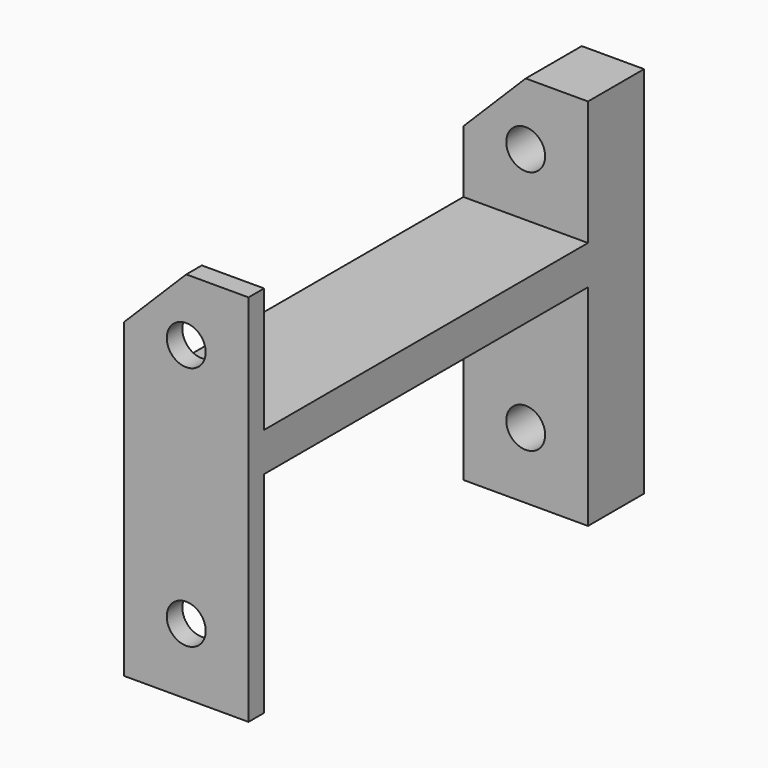
from build123d import *

# Parameters (mm, degrees)
F1_DEPTH  = 1.5875
F2_W      = 10.16
F2_H      = 3.175
F3_DEPTH  = 33.02
F5_DEPTH  = 1.5875
F7_DEPTH  = 4.1275
F8_R      = 1.5875
F9_DEPTH  = 50.8
F10_R     = 1.5875
F11_DEPTH = 50.8


with BuildPart() as f1:
    # F0 (on Front) → F1 (new body)
    with BuildSketch(Plane.XZ):
        Polygon((-11.134821, 14.270418), (-16.214821, 9.190418), (-16.214821, -16.209582), (-6.054821, -16.209582), (-6.054821, 14.270418), align=None)
    extrude(amount=F1_DEPTH)

    # F2 (on face) → F3 (join)
    with BuildSketch(Plane.XZ.offset(1.5875)):
        with Locations((-11.134821, 2.522918)):
            Rectangle(F2_W, F2_H)
    extrude(amount=F3_DEPTH)

    # F4 (on face) → F5 (join)
    with BuildSketch(Plane.XZ.offset(34.6075)):
        Polygon((-16.214821, 9.190418), (-16.214821, 4.110418), (-16.214821, 0.935418), (-16.214821, -16.209582), (-6.054821, -16.209582), (-6.054821, 0.935418), (-6.054821, 4.110418), (-6.054821, 14.270418), (-11.134821, 14.270418), align=None)
    extrude(amount=F5_DEPTH)

    # F6 (on face) → F7 (join)
    with BuildSketch(Plane(origin=(0, 0, 0), x_dir=(-1, 0, 0), z_dir=(0, 1, 0))):
        Polygon((6.054821, -16.209582), (16.214821, -16.209582), (16.214821, 9.190418), (11.134821, 14.270418), (6.054821, 14.270418), align=None)
    extrude(amount=F7_DEPTH)

    # F8 (on face) → F9 (cut)
    with BuildSketch(Plane.XZ.offset(36.195)):
        with Locations((-11.134821, -10.812082)):
            Circle(F8_R)
    extrude(amount=-F9_DEPTH, mode=Mode.SUBTRACT)

    # F10 (on face) → F11 (cut)
    with BuildSketch(Plane.XZ.offset(36.195)):
        with Locations((-11.134821, 9.190418)):
            Circle(F10_R)
    extrude(amount=-F11_DEPTH, mode=Mode.SUBTRACT)


solid = f1.part
